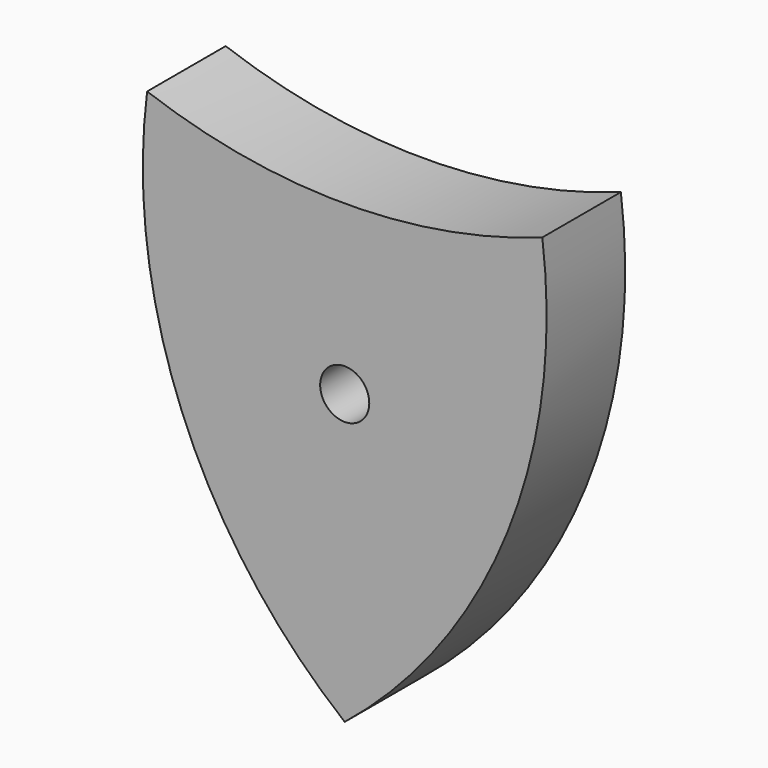
from build123d import *

# Parameters (mm, degrees)
F0_R     = 9.525
F0_R_2   = 1.5875
F1_DEPTH = 3.175


with BuildPart() as f1:
    # F0 (on Front) → F1 (new body, symmetric)
    with BuildSketch(Plane.XZ):
        with BuildLine():
            ThreePointArc((12.776924, 13.071381), (0, 10.845177), (-12.776924, 13.071381))
            ThreePointArc((-12.776924, 13.071381), (-10.514725, -4.456744), (0, -18.66214))
            ThreePointArc((0, -18.66214), (10.514725, -4.456744), (12.776924, 13.071381))
        make_face()
        Circle(F0_R, mode=Mode.SUBTRACT)
        Circle(F0_R)
        Circle(F0_R_2, mode=Mode.SUBTRACT)
    extrude(amount=F1_DEPTH, both=True)


solid = f1.part
